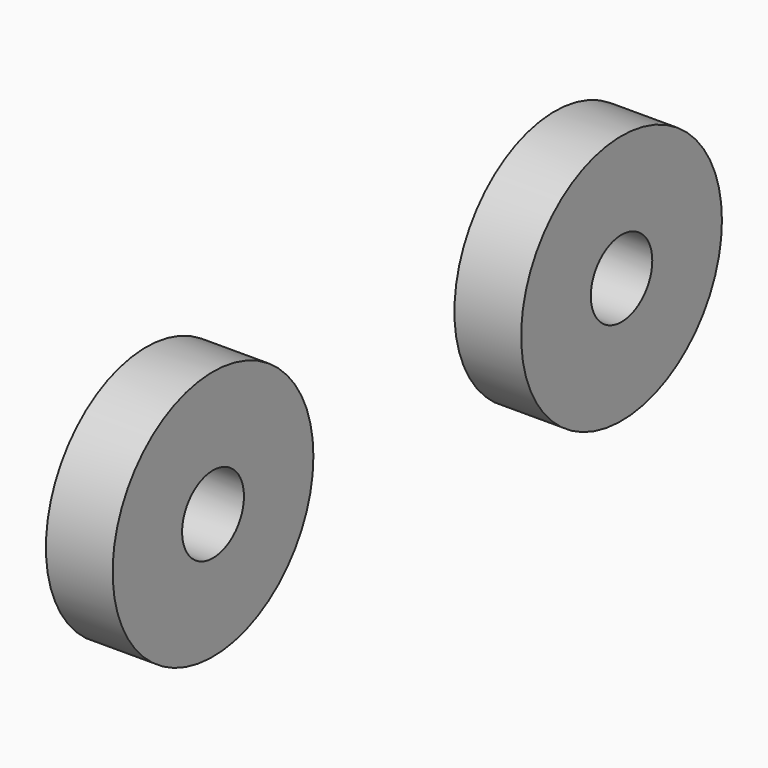
from build123d import *

# Parameters (mm, degrees)
F0_R     = 19.095466
F0_R_2   = 5.882519
F0_R_3   = 5.845209
F1_DEPTH = 10.16


with BuildPart() as f1:
    # F0 (on Right) → F1 (new body)
    with BuildSketch(Plane.YZ):
        with Locations((-37.236158, 0)):
            Circle(F0_R)
        with Locations((-37.236158, 0)):
            Circle(F0_R_2, mode=Mode.SUBTRACT)
        with Locations((40.482387, 0)):
            Circle(F0_R)
        with Locations((40.482387, 0)):
            Circle(F0_R_3, mode=Mode.SUBTRACT)
    extrude(amount=F1_DEPTH)


solid = f1.part
